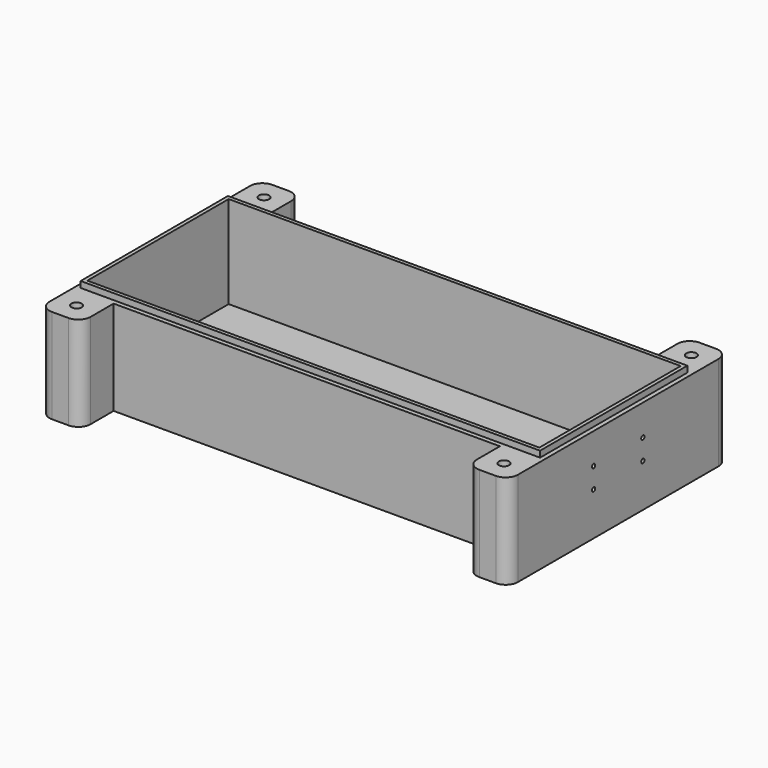
from build123d import *

# Parameters (mm, degrees)
SKETCH_W        = 114
SKETCH_H        = 47
PAD_DEPTH       = 24.5
THICKNESS_T     = -2
SKETCH001_W     = 114
SKETCH001_H     = 1.1
POCKET_DEPTH    = 1.5
SKETCH002_W     = 1.1
SKETCH002_H     = 47
POCKET001_DEPTH = 1.5
SKETCH003_W     = 10
SKETCH003_H     = 23
PAD001_DEPTH    = 10
SKETCH004_W     = 10
SKETCH004_H     = 23
PAD002_DEPTH    = 10
SKETCH005_R     = 1.25
POCKET002_DEPTH = 23
SKETCH006_R     = 0.5
POCKET003_DEPTH = 2
SKETCH007_W     = 9
SKETCH007_H     = 5
PAD003_DEPTH    = 6
SKETCH009_R     = 1.5
POCKET004_DEPTH = 5
FILLET_R        = 3
FILLET001_R     = 3
FILLET002_R     = 3


with BuildPart() as part:
    # Sketch → Pad (new body)
    with BuildSketch(Plane.XY):
        Rectangle(SKETCH_W, SKETCH_H)
    extrude(amount=PAD_DEPTH)

    # Thickness
    thickness_openings = [part.faces().sort_by_distance(p)[0] for p in [
        (0, 0, 24.5),
    ]]
    offset(amount=THICKNESS_T, openings=thickness_openings)

    # Sketch001 (on Face6 of Thickness) → Pocket (cut)
    with BuildSketch(Plane.XY.offset(24.5)):
        with Locations((0, -22.95)):
            Rectangle(SKETCH001_W, SKETCH001_H)
        with Locations((0, 22.95)):
            Rectangle(SKETCH001_W, SKETCH001_H)
    extrude(amount=-POCKET_DEPTH, mode=Mode.SUBTRACT)

    # Sketch002 (on Face6 of Pocket) → Pocket001 (cut)
    with BuildSketch(Plane.XY.offset(24.5)):
        with Locations((56.45, 0)):
            Rectangle(SKETCH002_W, SKETCH002_H)
        with Locations((-56.45, 0)):
            Rectangle(SKETCH002_W, SKETCH002_H)
    extrude(amount=-POCKET001_DEPTH, mode=Mode.SUBTRACT)

    # Sketch003 (on Face4 of Pocket001) → Pad001 (join)
    with BuildSketch(Plane(origin=(0, 23.5, 0), x_dir=(-1, 0, 0), z_dir=(0, 1, 0))):
        with Locations((-52, 11.5)):
            Rectangle(SKETCH003_W, SKETCH003_H)
        with Locations((52, 11.5)):
            Rectangle(SKETCH003_W, SKETCH003_H)
    extrude(amount=PAD001_DEPTH)

    # Sketch004 (on Face1 of Pad001) → Pad002 (join)
    with BuildSketch(Plane.XZ.offset(23.5)):
        with Locations((-52, 11.5)):
            Rectangle(SKETCH004_W, SKETCH004_H)
        with Locations((52, 11.5)):
            Rectangle(SKETCH004_W, SKETCH004_H)
    extrude(amount=PAD002_DEPTH)

    # Sketch005 (on Face12 of Pad002) → Pocket002 (cut)
    with BuildSketch(Plane.XY.offset(23)):
        with Locations((-52, 28.5)):
            Circle(SKETCH005_R)
        with Locations((52, 28.5)):
            Circle(SKETCH005_R)
        with Locations((52, -28.5)):
            Circle(SKETCH005_R)
        with Locations((-52, -28.5)):
            Circle(SKETCH005_R)
    extrude(amount=-POCKET002_DEPTH, mode=Mode.SUBTRACT)

    # Sketch006 (on Face12 of Pocket002) → Pocket003 (cut)
    with BuildSketch(Plane.YZ.offset(57)):
        with Locations((7.5, 10.5)):
            Circle(SKETCH006_R)
        with Locations((7.5, 15.5)):
            Circle(SKETCH006_R)
        with Locations((-7.5, 10.5)):
            Circle(SKETCH006_R)
        with Locations((-7.5, 15.5)):
            Circle(SKETCH006_R)
    extrude(amount=-POCKET003_DEPTH, mode=Mode.SUBTRACT)

    # Sketch007 (on Face4 of Pocket003) → Pad003 (join)
    with BuildSketch(Plane(origin=(-57, 0, 0), x_dir=(0, -1, 0), z_dir=(-1, 0, 0))):
        with Locations((0, 11.5)):
            Rectangle(SKETCH007_W, SKETCH007_H)
    extrude(amount=PAD003_DEPTH)

    # Sketch009 (on Face22 of Pad003) → Pocket004 (cut)
    with BuildSketch(Plane.XY.offset(14)):
        with Locations((-58.5, 0)):
            Circle(SKETCH009_R)
    extrude(amount=-POCKET004_DEPTH, mode=Mode.SUBTRACT)

    # Fillet
    fillet_edges = [part.edges().sort_by_distance(p)[0] for p in [
        (-57, -33.5, 11.5),
        (-47, -33.5, 11.5),
        (47, -33.5, 11.5),
        (57, -33.5, 11.5),
    ]]
    fillet(fillet_edges, radius=FILLET_R)

    # Fillet001
    fillet001_edges = [part.edges().sort_by_distance(p)[0] for p in [
        (-63, -4.5, 11.5),
        (-63, 4.5, 11.5),
    ]]
    fillet(fillet001_edges, radius=FILLET001_R)

    # Fillet002
    fillet002_edges = [part.edges().sort_by_distance(p)[0] for p in [
        (57, 33.5, 11.5),
        (47, 33.5, 11.5),
        (-47, 33.5, 11.5),
        (-57, 33.5, 11.5),
    ]]
    fillet(fillet002_edges, radius=FILLET002_R)


solid = part.part
